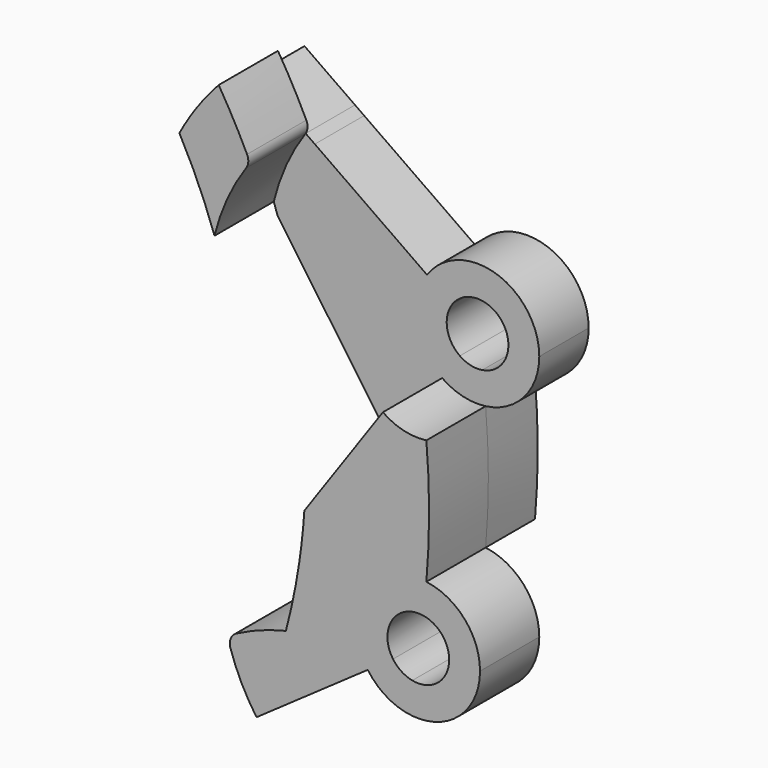
from build123d import *

# Parameters (mm, degrees)
F1_DEPTH = 15.24
F2_DEPTH = 12.7
F3_R     = 2.54
F3_2_R   = 2.54


with BuildPart() as f1:
    # F0 (on Front) → F1 (new body)
    with BuildSketch(Plane.XZ):
        with BuildLine():
            ThreePointArc((-10.4032309625, -7.2844207417), (-12.5070584633, 2.2053318564), (-7.2844207417, 10.4032309625))
            Line((-7.2844207417, 10.4032309625), (-17.7852714705, 25.4))
            Line((-17.7852714705, 25.4), (-23.4487037639, 17.311780459))
            ThreePointArc((-23.4487037639, 17.3117804589), (-23.8691571207, 12.4904135074), (-24.4822790895, 7.6897425378))
            ThreePointArc((-24.4822790895, 7.6897425378), (-25.6753043407, 0.9556578611), (-27.247280138, -5.700174001))
            ThreePointArc((-27.247280138, -5.700174001), (-29.9750764217, -14.5626206105), (-33.3742275986, -23.1898799521))
            ThreePointArc((-33.3742275986, -23.1898799521), (-33.332337581, -23.2500509975), (-33.2903390799, -23.3101463733))
            Line((-33.2903390799, -23.3101463733), (-10.4032309625, -7.2844207417))
        make_face()
        with BuildLine():
            ThreePointArc((-10.4032309625, -7.2844207417), (-12.5070584633, 2.2053318564), (-7.2844207417, 10.4032309625))
            Line((-7.2844207417, 10.4032309625), (-17.7852714705, 25.4))
            Line((-17.7852714705, 25.4), (-23.4487037639, 17.311780459))
            ThreePointArc((-23.4487037639, 17.3117804589), (-23.8691571207, 12.4904135074), (-24.4822790895, 7.6897425378))
            ThreePointArc((-24.4822790895, 7.6897425378), (-25.6753043407, 0.9556578611), (-27.247280138, -5.700174001))
            ThreePointArc((-27.247280138, -5.700174001), (-29.9750764217, -14.5626206105), (-33.3742275986, -23.1898799521))
            ThreePointArc((-33.3742275986, -23.1898799521), (-33.332337581, -23.2500509975), (-33.2903390799, -23.3101463733))
            Line((-33.2903390799, -23.3101463733), (-10.4032309625, -7.2844207417))
        make_face()
        with BuildLine():
            ThreePointArc((-5.2016154812, -3.6422103708), (-6.2535292316, 1.1026659282), (-3.6422103708, 5.2016154812))
            Line((-3.6422103708, 5.2016154812), (-7.2844207417, 10.4032309625))
            ThreePointArc((-7.2844207417, 10.4032309625), (-12.5070584633, 2.2053318564), (-10.4032309625, -7.2844207417))
            Line((-10.4032309625, -7.2844207417), (-5.2016154812, -3.6422103708))
        make_face()
        with BuildLine():
            ThreePointArc((-2.7462097635, -12.3995295046), (-1.958668649, -9.3220137901), (-1.2381453807, -6.2281213874))
            ThreePointArc((-1.2381453807, -6.2281213874), (-3.4697786581, -5.3181891715), (-5.2016154812, -3.6422103708))
            Line((-5.2016154812, -3.6422103708), (-10.4032309625, -7.2844207417))
            ThreePointArc((-10.4032309625, -7.2844207417), (-7.0546461474, -10.5603961921), (-2.7462097635, -12.3995295046))
        make_face()
        with BuildLine():
            ThreePointArc((0.9666668919, 6.2759903697), (4.8197943298, 4.1342572027), (6.35, 0))
            ThreePointArc((6.35, 0), (4.0286645947, -4.9083970483), (-1.2381453807, -6.2281213874))
            ThreePointArc((-1.2381453807, -6.2281213874), (-1.958668649, -9.3220137901), (-2.7462097635, -12.3995295046))
            ThreePointArc((-2.7462097635, -12.3995295046), (7.9502558451, -9.9037079924), (12.7, 0))
            ThreePointArc((12.7, 0), (9.5492344397, 8.372700975), (1.6602958084, 12.5910054336))
            ThreePointArc((1.6602958084, 12.5910054336), (1.3477700165, 9.4297317015), (0.9666668919, 6.2759903697))
        make_face()
        with BuildLine():
            ThreePointArc((-3.6422103708, 5.2016154812), (-1.4415975781, 6.1841973144), (0.9666668919, 6.2759903697))
            ThreePointArc((0.9666668919, 6.2759903697), (1.3477700165, 9.4297317015), (1.6602958084, 12.5910054336))
            ThreePointArc((1.6602958084, 12.5910054336), (-3.0173307078, 12.3363574608), (-7.2844207417, 10.4032309625))
            Line((-7.2844207417, 10.4032309625), (-3.6422103708, 5.2016154812))
        make_face()
        with BuildLine():
            ThreePointArc((-7.2844207417, 10.4032309625), (-3.0173307078, 12.3363574608), (1.6602958084, 12.5910054336))
            ThreePointArc((1.6602958084, 12.5910054336), (2.2222120536, 25.4), (1.6602958084, 38.2089945664))
            ThreePointArc((1.6602958084, 38.2089945664), (-3.0173307078, 38.4636425392), (-7.2844207417, 40.3967690375))
            Line((-7.2844207417, 40.3967690375), (-17.7852714705, 25.4))
            Line((-17.7852714705, 25.4), (-7.2844207417, 10.4032309625))
        make_face()
        with BuildLine():
            ThreePointArc((-39.2570089364, -10.5117481595), (-36.8647241491, -17.1056047368), (-33.3742275986, -23.1898799521))
            ThreePointArc((-33.3742275986, -23.1898799521), (-29.9750764217, -14.5626206105), (-27.247280138, -5.700174001))
            ThreePointArc((-27.247280138, -5.700174001), (-33.4333745622, -7.6536094425), (-39.2570089364, -10.5117481595))
        make_face()
    extrude(amount=F1_DEPTH)

    # F3
    f3_edges = [f1.edges().sort_by_distance(p)[0] for p in [
        (-39.257009, -7.62, -10.511748),
    ]]
    fillet(f3_edges, radius=F3_R)


with BuildPart() as f1b:
    # F0 (on Front) → F1, piece 2 (new body)
    with BuildSketch(Plane.XZ):
        with BuildLine():
            ThreePointArc((-41.935619441, 61.0915607223), (-39.3250885511, 68.6339510609), (-35.3709852724, 75.5670305216))
            Line((-35.3709852724, 75.5670305216), (-45.7742162349, 82.8514512633))
            ThreePointArc((-45.7742162349, 82.8514512633), (-47.5513705802, 80.150324631), (-49.1693231871, 77.3509332664))
            ThreePointArc((-49.1693231871, 77.3509332664), (-45.2175428708, 69.3702547822), (-41.935619441, 61.0915607223))
        make_face()
        with BuildLine():
            Line((-45.7742162349, 82.8514512633), (-35.3709852724, 75.5670305216))
            ThreePointArc((-35.3709852724, 75.5670305216), (-34.9813519115, 76.1143717766), (-34.5832495999, 76.6555844473))
            ThreePointArc((-34.5832495999, 76.6555844473), (-37.6573325287, 82.7646940248), (-41.0720083574, 88.6901640204))
            ThreePointArc((-41.0720083574, 88.6901640204), (-43.5211365103, 85.8497514521), (-45.7742162349, 82.8514512633))
        make_face()
    extrude(amount=F1_DEPTH)

    # F3#2
    f3_2_edges = [f1b.edges().sort_by_distance(p)[0] for p in [
        (-34.58325, -7.62, 76.655584),
    ]]
    fillet(f3_2_edges, radius=F3_2_R)


with BuildPart() as f2:
    # F0 (on Front) → F2 (new body)
    with BuildSketch(Plane.XZ):
        with BuildLine():
            ThreePointArc((-41.935619441, 61.0915607223), (-39.3250885511, 68.6339510609), (-35.3709852724, 75.5670305216))
            Line((-35.3709852724, 75.5670305216), (-45.7742162349, 82.8514512633))
            ThreePointArc((-45.7742162349, 82.8514512633), (-47.5513705802, 80.150324631), (-49.1693231871, 77.3509332664))
            ThreePointArc((-49.1693231871, 77.3509332664), (-45.2175428708, 69.3702547822), (-41.935619441, 61.0915607223))
        make_face()
        with BuildLine():
            ThreePointArc((-25.6358638454, 49.6525617154), (-28.9034220532, 62.1608980598), (-33.488219541, 74.2487037639))
            Line((-33.488219541, 74.2487037639), (-35.3709852724, 75.5670305216))
            ThreePointArc((-35.3709852724, 75.5670305216), (-39.3250885511, 68.6339510609), (-41.935619441, 61.0915607223))
            ThreePointArc((-41.935619441, 61.0915607223), (-41.5390767729, 59.9361318066), (-41.1556072988, 58.7762985301))
            Line((-41.1556072988, 58.7762985301), (-32.0514512633, 45.7742162349))
            ThreePointArc((-32.0514512633, 45.7742162349), (-28.9087698117, 47.8210981469), (-25.6358638454, 49.6525617154))
        make_face()
        with BuildLine():
            Line((-23.4487037639, 33.488219541), (-17.7852714705, 25.4))
            Line((-17.7852714705, 25.4), (-7.2844207417, 40.3967690375))
            ThreePointArc((-7.2844207417, 40.3967690375), (-12.5070584633, 48.5946681436), (-10.4032309625, 58.0844207417))
            Line((-10.4032309625, 58.0844207417), (-33.488219541, 74.2487037639))
            ThreePointArc((-33.488219541, 74.2487037639), (-28.9034220532, 62.1608980598), (-25.6358638454, 49.6525617154))
            ThreePointArc((-25.6358638454, 49.6525617154), (-24.453748264, 42.9165533695), (-23.6544937534, 36.1244698961))
            ThreePointArc((-23.6544937534, 36.1244698961), (-23.5443895594, 34.8069074804), (-23.4487037639, 33.4882195411))
        make_face()
        with BuildLine():
            ThreePointArc((-7.2844207417, 10.4032309625), (-3.0173307078, 12.3363574608), (1.6602958084, 12.5910054336))
            ThreePointArc((1.6602958084, 12.5910054336), (2.2222120536, 25.4), (1.6602958084, 38.2089945664))
            ThreePointArc((1.6602958084, 38.2089945664), (-3.0173307078, 38.4636425392), (-7.2844207417, 40.3967690375))
            Line((-7.2844207417, 40.3967690375), (-17.7852714705, 25.4))
            Line((-17.7852714705, 25.4), (-7.2844207417, 10.4032309625))
        make_face()
        with BuildLine():
            ThreePointArc((-10.4032309625, 58.0844207417), (-12.5070584633, 48.5946681436), (-7.2844207417, 40.3967690375))
            Line((-7.2844207417, 40.3967690375), (-3.6422103708, 45.5983845188))
            ThreePointArc((-3.6422103708, 45.5983845188), (-6.2535292316, 49.6973340718), (-5.2016154812, 54.4422103708))
            Line((-5.2016154812, 54.4422103708), (-10.4032309625, 58.0844207417))
        make_face()
        with BuildLine():
            ThreePointArc((0.9666668919, 44.5240096303), (1.3477700165, 41.3702682985), (1.6602958084, 38.2089945664))
            ThreePointArc((1.6602958084, 38.2089945664), (9.5492344397, 42.427299025), (12.7, 50.8))
            ThreePointArc((12.7, 50.8), (3.8189636537, 62.9122052745), (-10.4032309625, 58.0844207417))
            Line((-10.4032309625, 58.0844207417), (-5.2016154812, 54.4422103708))
            ThreePointArc((-5.2016154812, 54.4422103708), (1.9094818269, 56.8561026373), (6.35, 50.8))
            ThreePointArc((6.35, 50.8), (4.8197943298, 46.6657427973), (0.9666668919, 44.5240096303))
        make_face()
        with BuildLine():
            ThreePointArc((-7.2844207417, 40.3967690375), (-3.0173307078, 38.4636425392), (1.6602958084, 38.2089945664))
            ThreePointArc((1.6602958084, 38.2089945664), (1.3477700165, 41.3702682985), (0.9666668919, 44.5240096303))
            ThreePointArc((0.9666668919, 44.5240096303), (-1.4415975781, 44.6158026856), (-3.6422103708, 45.5983845188))
            Line((-3.6422103708, 45.5983845188), (-7.2844207417, 40.3967690375))
        make_face()
        with BuildLine():
            Line((-32.0514512633, 45.7742162349), (-24.7670305216, 35.3709852724))
            ThreePointArc((-24.7670305216, 35.3709852724), (-24.2136931931, 35.7520553528), (-23.6544937534, 36.1244698961))
            ThreePointArc((-23.6544937534, 36.1244698961), (-24.453748264, 42.9165533695), (-25.6358638454, 49.6525617154))
            ThreePointArc((-25.6358638454, 49.6525617154), (-28.9087698117, 47.8210981469), (-32.0514512633, 45.7742162349))
        make_face()
        with BuildLine():
            Line((-24.7670305216, 35.3709852724), (-23.4487037639, 33.488219541))
            ThreePointArc((-23.4487037639, 33.4882195411), (-23.5443895594, 34.8069074804), (-23.6544937534, 36.1244698961))
            ThreePointArc((-23.6544937534, 36.1244698961), (-24.2136931931, 35.7520553528), (-24.7670305216, 35.3709852724))
        make_face()
    extrude(amount=-F2_DEPTH)


solid = Compound([f1.part, f1b.part, f2.part])
